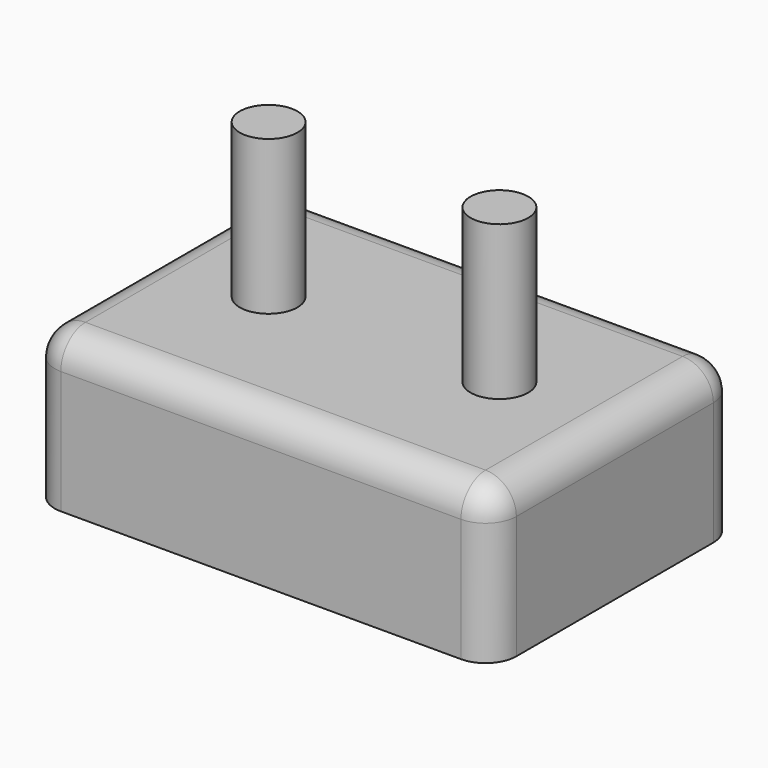
from build123d import *

# Parameters (mm, degrees)
F0_W     = 76.2
F0_H     = 50.8
F0_R     = 4.7625
F1_DEPTH = 25.4
F2_DEPTH = 50.8
F3_R     = 5.08


with BuildPart() as f1:
    # F0 (on Top) → F1 (new body)
    with BuildSketch(Plane.XY):
        Rectangle(F0_W, F0_H)
        with Locations((-19.05, 0)):
            Circle(F0_R, mode=Mode.SUBTRACT)
        with Locations((19.05, 0)):
            Circle(F0_R, mode=Mode.SUBTRACT)
    extrude(amount=F1_DEPTH)

    # F3
    f3_edges = [f1.edges().sort_by_distance(p)[0] for p in [
        (0, -25.4, 25.4),
        (-38.1, 0, 25.4),
        (0, 25.4, 25.4),
        (38.1, 0, 25.4),
        (38.1, -25.4, 12.7),
        (-38.1, -25.4, 12.7),
        (38.1, 25.4, 12.7),
    ]]
    fillet(f3_edges, radius=F3_R)


with BuildPart() as f2:
    # F0 (on Top) → F2 (new body)
    with BuildSketch(Plane.XY):
        with Locations((-19.05, 0)):
            Circle(F0_R)
        with Locations((19.05, 0)):
            Circle(F0_R)
    extrude(amount=F2_DEPTH)


solid = Compound([f1.part, f2.part])
